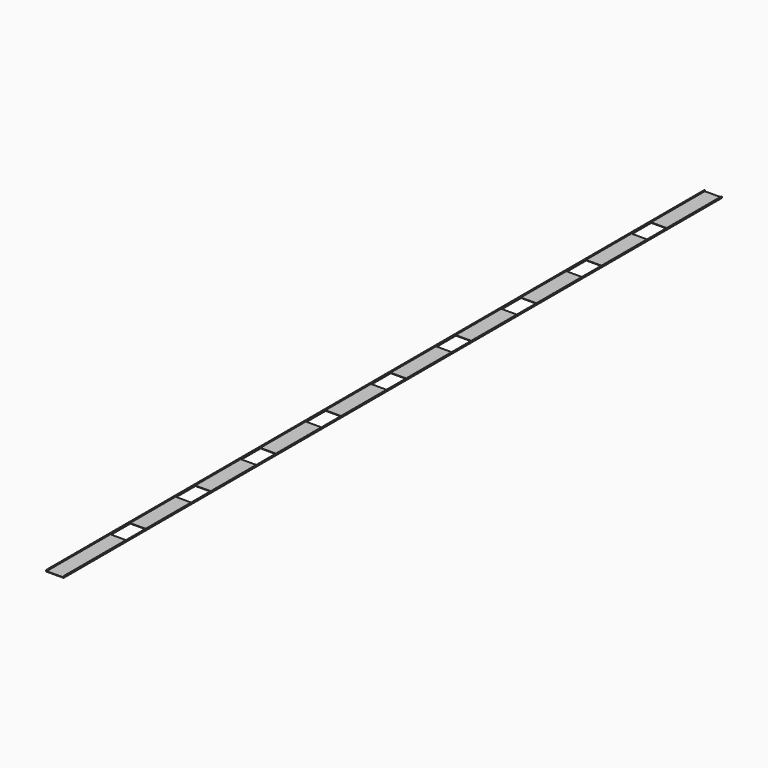
from build123d import *

# Parameters (mm, degrees)
F1_DEPTH = 9550
F2_W     = 185
F2_H     = 285
F3_DEPTH = 25


with BuildPart() as f1:
    # F0 (on Front) → F1 (new body)
    with BuildSketch(Plane.XZ):
        with BuildLine():
            Line((-100, -16), (100, -16))
            ThreePointArc((100, -16), (101.767767, -15.267767), (102.5, -13.5))
            Line((102.5, -13.5), (102.5, 0))
            Line((102.5, 0), (99.5, 0))
            Line((99.5, 0), (99.5, -10.5))
            ThreePointArc((99.5, -10.5), (98.767767, -12.267767), (97, -13))
            Line((97, -13), (-97, -13))
            ThreePointArc((-97, -13), (-98.767767, -12.267767), (-99.5, -10.5))
            Line((-99.5, -10.5), (-99.5, 0))
            Line((-99.5, 0), (-102.5, 0))
            Line((-102.5, 0), (-102.5, -13.5))
            ThreePointArc((-102.5, -13.5), (-101.767767, -15.267767), (-100, -16))
        make_face()
        with BuildLine():
            Line((99.5, -10.5), (99.5, 0))
            Line((99.5, 0), (96.5, 0))
            Line((96.5, 0), (96.5, -7.5))
            ThreePointArc((96.5, -7.5), (95.767767, -9.267767), (94, -10))
            Line((94, -10), (-94, -10))
            ThreePointArc((-94, -10), (-95.767767, -9.267767), (-96.5, -7.5))
            Line((-96.5, -7.5), (-96.5, 0))
            Line((-96.5, 0), (-99.5, 0))
            Line((-99.5, 0), (-99.5, -10.5))
            ThreePointArc((-99.5, -10.5), (-98.767767, -12.267767), (-97, -13))
            Line((-97, -13), (97, -13))
            ThreePointArc((97, -13), (98.767767, -12.267767), (99.5, -10.5))
        make_face()
    extrude(amount=F1_DEPTH)

    # F2 (on face) → F3 (cut)
    with BuildSketch(Plane.XY.offset(-10)):
        with Locations((0, -8482.5)):
            Rectangle(F2_W, F2_H)
        with Locations((0, -7537.5)):
            Rectangle(F2_W, F2_H)
        with Locations((0, -6592.5)):
            Rectangle(F2_W, F2_H)
        with Locations((0, -5647.5)):
            Rectangle(F2_W, F2_H)
        with Locations((0, -4702.5)):
            Rectangle(F2_W, F2_H)
        with Locations((0, -3757.5)):
            Rectangle(F2_W, F2_H)
        with Locations((0, -2812.5)):
            Rectangle(F2_W, F2_H)
        with Locations((0, -1867.5)):
            Rectangle(F2_W, F2_H)
        with Locations((0, -922.5)):
            Rectangle(F2_W, F2_H)
    extrude(amount=-F3_DEPTH, mode=Mode.SUBTRACT)


solid = f1.part
